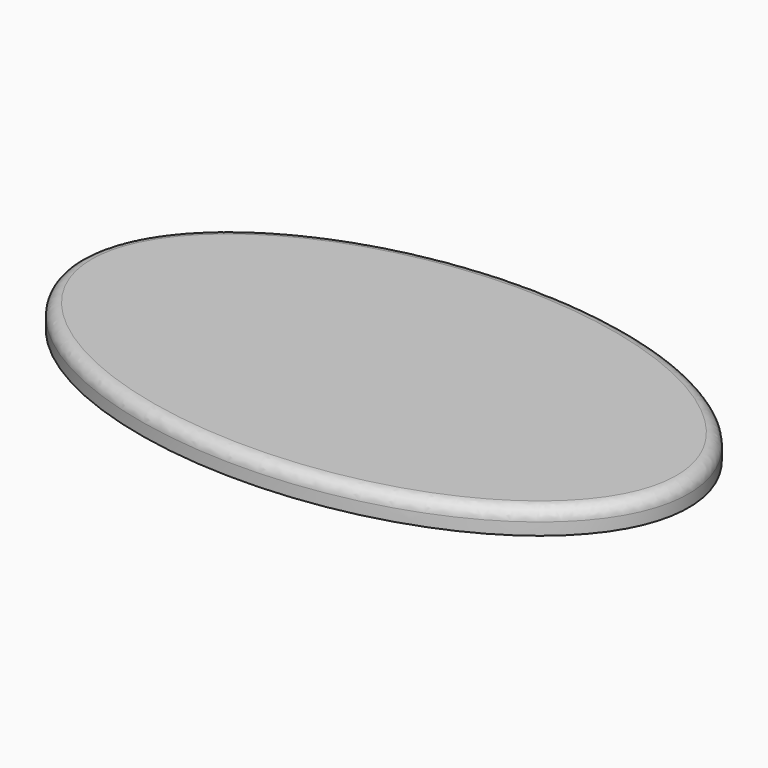
from build123d import *

# Parameters (mm, degrees)
F1_DEPTH = 10
F2_R     = 5


with BuildPart() as f1:
    # F0 (on Top) → F1 (new body)
    with BuildSketch(Plane.XY):
        with BuildLine():
            add(Edge.make_bspline(
                [(-125.2, 0), (-125.2, -130.163618), (62.6, -65.081809), (250.4, 0), (62.6, 65.081809), (-125.2, 130.163618), (-125.2, 0)],
                knots=[0, 0, 0, 2.094395, 2.094395, 4.18879, 4.18879, 6.283185, 6.283185, 6.283185], degree=2, weights=[1, 0.5, 1, 0.5, 1, 0.5, 1]))
        make_face()
    extrude(amount=F1_DEPTH)

    # F2
    f2_edges = [f1.edges().sort_by_distance(p)[0] for p in [
        (125.2, -1e-06, 10),
    ]]
    fillet(f2_edges, radius=F2_R)


solid = f1.part
